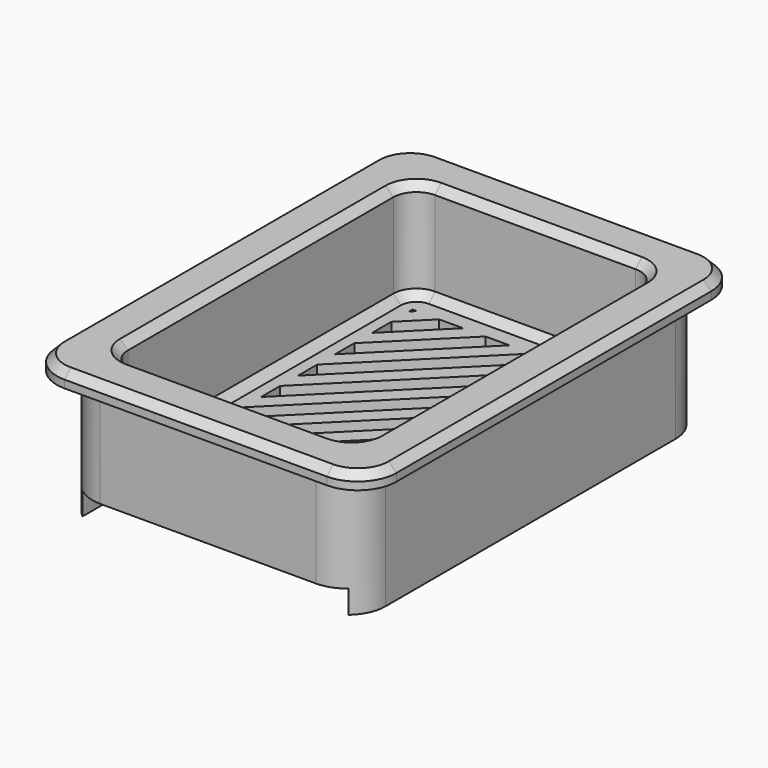
from build123d import *

# Parameters (mm, degrees)
F0_W      = 28
F0_H      = 44
F1_DEPTH  = 2
F3_DEPTH  = 2
F4_W      = 38
F4_H      = 57
F4_W_2    = 27
F4_H_2    = 43
F5_DEPTH  = 2
F6_W      = 1.75
F6_H      = 57
F7_DEPTH  = 3
F8_W      = 38
F8_H      = 57
F8_W_2    = 32
F8_H_2    = 49
F9_DEPTH  = 11
F10_W     = 44
F10_H     = 61
F10_W_2   = 32
F10_H_2   = 49
F11_DEPTH = 2
F12_R     = 5
F13_R     = 3
F14_SIZE  = 1


with BuildPart() as f1:
    # F0 (on Top) → F1 (new body)
    with BuildSketch(Plane.XY):
        with Locations((-14, 22)):
            Rectangle(F0_W, F0_H)
    extrude(amount=F1_DEPTH)

    # F2 (on face) → F3 (cut, through all)
    with BuildSketch(Plane.XY.offset(2)):
        Polygon((-28, 48.4443650814), (-1.0000491969, 75.4443158845), (0, 79.5556349186), (-29.5556349186, 50), align=None)
        Polygon((0, 79.5556349186), (-1.0000491969, 75.4443158845), (1.5556349186, 78), align=None)
        Polygon((-28, 42.4443650814), (-2.9286171114, 67.51574797), (-1.9285679145, 71.6270670041), (-29.5556349186, 44), align=None)
        Polygon((-1.9285679145, 71.6270670041), (-2.9286171114, 67.51574797), (1.5556349186, 72), (0, 73.5556349186), align=None)
        Polygon((-28, 36.4443650814), (-4.8571850259, 59.5871800555), (-3.857135829, 63.6984990896), (-29.5556349186, 38), align=None)
        Polygon((-3.857135829, 63.6984990896), (-4.8571850259, 59.5871800555), (1.5556349186, 66), (0, 67.5556349186), align=None)
        Polygon((-28, 30.4443650814), (-6.7857529404, 51.658612141), (-5.7857037435, 55.7699311751), (-29.5556349186, 32), align=None)
        Polygon((-5.7857037435, 55.7699311751), (-6.7857529404, 51.658612141), (1.5556349186, 60), (0, 61.5556349186), align=None)
        Polygon((-28, 24.4443650814), (-8.7143208549, 43.7300442265), (-7.714271658, 47.8413632606), (-29.5556349186, 26), align=None)
        Polygon((-7.714271658, 47.8413632606), (-8.7143208549, 43.7300442265), (1.5556349186, 54), (0, 55.5556349186), align=None)
        Polygon((-28, 18.4443650814), (-10.6428887694, 35.8014763119), (-9.6428395725, 39.9127953461), (-29.5556349186, 20), align=None)
        Polygon((-9.6428395725, 39.9127953461), (-10.6428887694, 35.8014763119), (1.5556349186, 48), (0, 49.5556349186), align=None)
        Polygon((-28, 12.4443650814), (-12.5714566839, 27.8729083974), (-11.571407487, 31.9842274316), (-29.5556349186, 14), align=None)
        Polygon((-11.571407487, 31.9842274316), (-12.5714566839, 27.8729083974), (1.5556349186, 42), (0, 43.5556349186), align=None)
        Polygon((-28, 6.4443650814), (-14.5000245985, 19.9443404829), (-13.4999754015, 24.0556595171), (-29.5556349186, 8), align=None)
        Polygon((-13.4999754015, 24.0556595171), (-14.5000245985, 19.9443404829), (1.5556349186, 36), (0, 37.5556349186), align=None)
        Polygon((-28, 0.4443650814), (-16.428592513, 12.0157725684), (-15.4285433161, 16.1270916026), (-29.5556349186, 2), align=None)
        Polygon((-15.4285433161, 16.1270916026), (-16.428592513, 12.0157725684), (1.5556349186, 30), (0, 31.5556349186), align=None)
        Polygon((-28, -5.5556349186), (-18.3571604275, 4.0872046539), (-17.3571112306, 8.1985236881), (-29.5556349186, -4), align=None)
        Polygon((-17.3571112306, 8.1985236881), (-18.3571604275, 4.0872046539), (1.5556349186, 24), (0, 25.5556349186), align=None)
        Polygon((-28, -11.5556349186), (-20.285728342, -3.8413632606), (-19.2856791451, 0.2699557735), (-29.5556349186, -10), align=None)
        Polygon((-19.2856791451, 0.2699557735), (-20.285728342, -3.8413632606), (1.5556349186, 18), (0, 19.5556349186), align=None)
        Polygon((-28, -17.5556349186), (-22.2142962565, -11.7699311751), (-21.2142470596, -7.658612141), (-29.5556349186, -16), align=None)
        Polygon((-21.2142470596, -7.658612141), (-22.2142962565, -11.7699311751), (1.5556349186, 12), (0, 13.5556349186), align=None)
        Polygon((-28, -23.5556349186), (-24.142864171, -19.6984990896), (-23.1428149741, -15.5871800555), (-29.5556349186, -22), align=None)
        Polygon((-23.1428149741, -15.5871800555), (-24.142864171, -19.6984990896), (1.5556349186, 6), (0, 7.5556349186), align=None)
        Polygon((-28, -29.5556349186), (-26.0714320855, -27.6270670041), (-25.0713828886, -23.51574797), (-29.5556349186, -28), align=None)
        Polygon((-25.0713828886, -23.51574797), (-26.0714320855, -27.6270670041), (1.5556349186, 0), (0, 1.5556349186), align=None)
        Polygon((-26.9999508031, -31.4443158845), (-29.5556349186, -34), (-28, -35.5556349186), align=None)
        Polygon((0, -4.4443650814), (-26.9999508031, -31.4443158845), (-28, -35.5556349186), (1.5556349186, -6), align=None)
    extrude(amount=-F3_DEPTH, mode=Mode.SUBTRACT)

    # F4 (on Top) → F5 (join)
    with BuildSketch(Plane.XY):
        with Locations((-14, 22)):
            Rectangle(F4_W, F4_H)
        with Locations((-14, 22)):
            Rectangle(F4_W_2, F4_H_2, mode=Mode.SUBTRACT)
    extrude(amount=F5_DEPTH)

    # F6 (on face) → F7 (join)
    with BuildSketch(Plane(origin=(0, 0, 0), x_dir=(1, 0, 0), z_dir=(0, 0, -1))):
        with Locations((-32.125, -22)):
            Rectangle(F6_W, F6_H)
        with Locations((4.125, -22)):
            Rectangle(F6_W, F6_H)
    extrude(amount=F7_DEPTH)

    # F8 (on face) → F9 (join)
    with BuildSketch(Plane.XY.offset(2)):
        with Locations((-14, 22)):
            Rectangle(F8_W, F8_H)
        with Locations((-14, 22)):
            Rectangle(F8_W_2, F8_H_2, mode=Mode.SUBTRACT)
    extrude(amount=F9_DEPTH)

    # F10 (on face) → F11 (join)
    with BuildSketch(Plane.XY.offset(13)):
        with Locations((-14, 22)):
            Rectangle(F10_W, F10_H)
        with Locations((-14, 22)):
            Rectangle(F10_W_2, F10_H_2, mode=Mode.SUBTRACT)
    extrude(amount=F11_DEPTH)

    # F12
    f12_edges = [f1.edges().sort_by_distance(p)[0] for p in [
        (8, -8.5, 14),
        (5, -6.5, 5),
        (-33, -6.5, 5),
        (-36, -8.5, 14),
        (-36, 52.5, 14),
        (-33, 50.5, 5),
        (8, 52.5, 14),
        (5, 50.5, 5),
    ]]
    fillet(f12_edges, radius=F12_R)

    # F13
    f13_edges = [f1.edges().sort_by_distance(p)[0] for p in [
        (-30, 46.5, 8.5),
        (-30, -2.5, 8.5),
        (2, 46.5, 8.5),
        (2, -2.5, 8.5),
    ]]
    fillet(f13_edges, radius=F13_R)

    # F14
    f14_edges = [f1.edges().sort_by_distance(p)[0] for p in [
        (-14, 46.5, 2),
        (-14, 46.5, 15),
        (-36, 22, 15),
    ]]
    chamfer(f14_edges, length=F14_SIZE)


solid = f1.part
